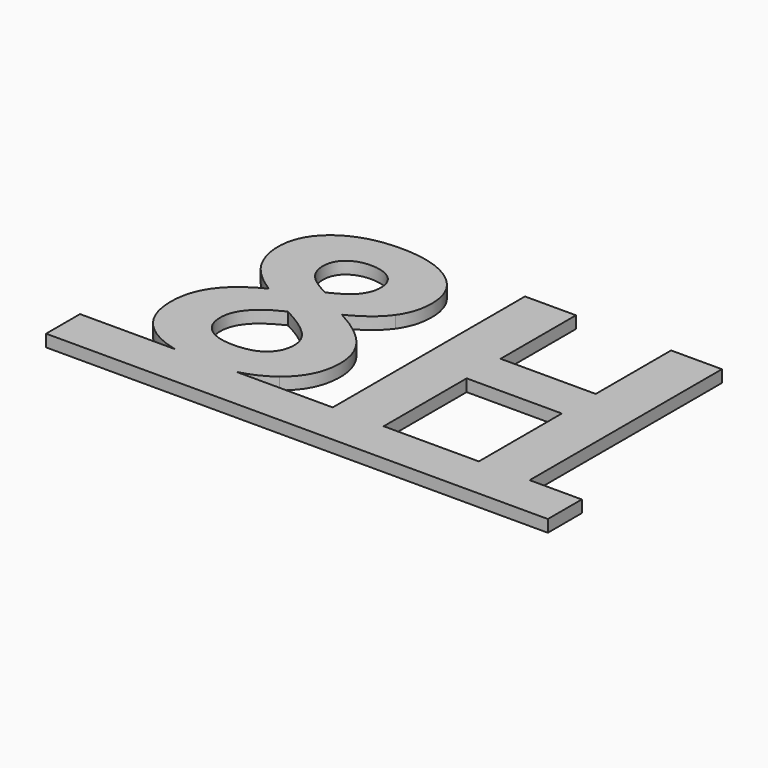
from build123d import *

# Parameters (mm, degrees)
F1_DEPTH = 50.8


with BuildPart() as f1:
    # F0 (on Top) → F1 (new body)
    with BuildSketch(Plane.XY):
        with BuildLine():
            add(Edge.make_bspline(
                [(-256.7479731839, -509.9398493767), (-331.0947230301, -492.5735059696), (-383.5255294376, -453.4954049322)],
                knots=[0.4444009035, 0.4444009035, 0.4444009035, 1, 1, 1], degree=2))
            Line((-256.7479731839, -509.9398493767), (0.8936934563, -509.9398493767))
            add(Edge.make_bspline(
                [(131.8607552846, -448.3139813211), (76.3916231759, -491.4426481707), (0.8936934563, -509.9398493767)],
                knots=[0, 0, 0, 0.5711158597, 0.5711158597, 0.5711158597], degree=2))
            add(Edge.make_bspline(
                [(228.9848872291, -248.8842938211), (228.9848872291, -372.7974882656), (131.8607552846, -448.3139813211)],
                knots=[0, 0, 0, 1, 1, 1], degree=2))
            add(Edge.make_bspline(
                [(179.7062413957, -104.3556479878), (228.9848872291, -170.1707521545), (228.9848872291, -248.8842938211)],
                knots=[0, 0, 0, 1, 1, 1], degree=2))
            add(Edge.make_bspline(
                [(17.5387066735, 22.0931367344), (130.4275955624, -38.5405438211), (179.7062413957, -104.3556479878)],
                knots=[0, 0, 0, 1, 1, 1], degree=2))
            add(Edge.make_bspline(
                [(155.342526118, 129.8006020122), (112.5682205624, 69.4976506233), (17.5387066735, 22.0931367344)],
                knots=[0, 0, 0, 1, 1, 1], degree=2))
            add(Edge.make_bspline(
                [(198.1168316735, 267.27369229), (198.1168316735, 190.1035534011), (155.342526118, 129.8006020122)],
                knots=[0, 0, 0, 1, 1, 1], degree=2))
            add(Edge.make_bspline(
                [(109.5916580624, 444.6547686789), (198.1168316735, 378.8396645122), (198.1168316735, 267.27369229)],
                knots=[0, 0, 0, 1, 1, 1], degree=2))
            add(Edge.make_bspline(
                [(-123.7928905487, 510.4698728455), (21.0664844513, 510.4698728455), (109.5916580624, 444.6547686789)],
                knots=[0, 0, 0, 1, 1, 1], degree=2))
            add(Edge.make_bspline(
                [(-357.2876822154, 443.6625811789), (-267.7703211043, 510.4698728455), (-123.7928905487, 510.4698728455)],
                knots=[0, 0, 0, 1, 1, 1], degree=2))
            add(Edge.make_bspline(
                [(-446.8050433265, 268.5966089567), (-446.8050433265, 376.8552895122), (-357.2876822154, 443.6625811789)],
                knots=[0, 0, 0, 1, 1, 1], degree=2))
            add(Edge.make_bspline(
                [(-408.9916752709, 132.8874075678), (-446.8050433265, 194.9542478455), (-446.8050433265, 268.5966089567)],
                knots=[0, 0, 0, 1, 1, 1], degree=2))
            add(Edge.make_bspline(
                [(-284.9682377709, 16.5809839567), (-371.1783072154, 70.82056729), (-408.9916752709, 132.8874075678)],
                knots=[0, 0, 0, 1, 1, 1], degree=2))
            add(Edge.make_bspline(
                [(-432.032473882, -101.3790854878), (-386.1713627709, -34.5717938211), (-284.9682377709, 16.5809839567)],
                knots=[0, 0, 0, 1, 1, 1], degree=2))
            add(Edge.make_bspline(
                [(-477.8935849932, -254.3964465989), (-477.8935849932, -168.1863771545), (-432.032473882, -101.3790854878)],
                knots=[0, 0, 0, 1, 1, 1], degree=2))
            add(Edge.make_bspline(
                [(-383.5255294376, -453.4954049322), (-477.8935849932, -383.1603354878), (-477.8935849932, -254.3964465989)],
                knots=[0, 0, 0, 1, 1, 1], degree=2))
        make_face()
        with BuildLine():
            add(Edge.make_bspline(
                [(-280.7790016598, -241.8287382656), (-280.7790016598, -301.1395021545), (-239.4378558265, -334.2124188211)],
                knots=[0, 0, 0, 1, 1, 1], degree=2))
            add(Edge.make_bspline(
                [(-134.1557377709, -70.9520021545), (-280.7790016598, -138.6412382656), (-280.7790016598, -241.8287382656)],
                knots=[0, 0, 0, 1, 1, 1], degree=2))
            add(Edge.make_bspline(
                [(-7.7069530487, -156.8313424322), (-46.6227516598, -116.5926271545), (-134.1557377709, -70.9520021545)],
                knots=[0, 0, 0, 1, 1, 1], degree=2))
            add(Edge.make_bspline(
                [(31.2088455624, -243.3721410433), (31.2088455624, -197.07005771), (-7.7069530487, -156.8313424322)],
                knots=[0, 0, 0, 1, 1, 1], degree=2))
            add(Edge.make_bspline(
                [(-8.0376822154, -333.2202313211), (31.2088455624, -299.1551271545), (31.2088455624, -243.3721410433)],
                knots=[0, 0, 0, 1, 1, 1], degree=2))
            add(Edge.make_bspline(
                [(-126.438723882, -367.2853354878), (-47.2842099932, -367.2853354878), (-8.0376822154, -333.2202313211)],
                knots=[0, 0, 0, 1, 1, 1], degree=2))
            add(Edge.make_bspline(
                [(-239.4378558265, -334.2124188211), (-198.0967099932, -367.2853354878), (-126.438723882, -367.2853354878)],
                knots=[0, 0, 0, 1, 1, 1], degree=2))
        make_face(mode=Mode.SUBTRACT)
        with BuildLine():
            add(Edge.make_bspline(
                [(-125.1158072154, 354.8066784011), (-179.5758766598, 354.8066784011), (-212.9795224932, 326.9151853455)],
                knots=[0, 0, 0, 1, 1, 1], degree=2))
            add(Edge.make_bspline(
                [(-36.9213627709, 327.2459145122), (-71.3171961043, 354.8066784011), (-125.1158072154, 354.8066784011)],
                knots=[0, 0, 0, 1, 1, 1], degree=2))
            add(Edge.make_bspline(
                [(-2.5255294376, 252.0601506233), (-2.5255294376, 299.6851506233), (-36.9213627709, 327.2459145122)],
                knots=[0, 0, 0, 1, 1, 1], degree=2))
            add(Edge.make_bspline(
                [(-29.3145919376, 175.5514700678), (-2.5255294376, 208.6243867344), (-2.5255294376, 252.0601506233)],
                knots=[0, 0, 0, 1, 1, 1], degree=2))
            add(Edge.make_bspline(
                [(-123.7928905487, 110.9490395122), (-56.1036544376, 142.4785534011), (-29.3145919376, 175.5514700678)],
                knots=[0, 0, 0, 1, 1, 1], degree=2))
            add(Edge.make_bspline(
                [(-219.8145919376, 178.0870603455), (-193.2460155487, 145.3448728455), (-123.7928905487, 110.9490395122)],
                knots=[0, 0, 0, 1, 1, 1], degree=2))
            add(Edge.make_bspline(
                [(-246.3831683265, 252.0601506233), (-246.3831683265, 210.8292478455), (-219.8145919376, 178.0870603455)],
                knots=[0, 0, 0, 1, 1, 1], degree=2))
            add(Edge.make_bspline(
                [(-212.9795224932, 326.9151853455), (-246.3831683265, 299.02369229), (-246.3831683265, 252.0601506233)],
                knots=[0, 0, 0, 1, 1, 1], degree=2))
        make_face(mode=Mode.SUBTRACT)
        Polygon((1017.2227344513, -509.9398493767), (1230.2123177846, -509.9398493767), (1230.2123177846, 497.46119229), (1017.2227344513, 497.46119229), (1017.2227344513, 102.57056729), (618.3633594513, 102.57056729), (618.3633594513, 497.46119229), (404.7123177846, 497.46119229), (404.7123177846, -509.9398493767), (618.3633594513, -509.9398493767), (618.3633594513, -75.1412382656), (1017.2227344513, -75.1412382656), align=None)
        with BuildLine():
            Line((-654.5029599932, -509.9398493767), (-654.5029599932, -687.7398493767))
            Line((-654.5029599932, -687.7398493767), (1448.7140538957, -687.7398493767))
            Line((1448.7140538957, -687.7398493767), (1448.7140538957, -509.9398493767))
            Line((1448.7140538957, -509.9398493767), (1230.2123177846, -509.9398493767))
            Line((1230.2123177846, -509.9398493767), (1017.2227344513, -509.9398493767))
            Line((1017.2227344513, -509.9398493767), (618.3633594513, -509.9398493767))
            Line((618.3633594513, -509.9398493767), (404.7123177846, -509.9398493767))
            Line((404.7123177846, -509.9398493767), (0.8936934563, -509.9398493767))
            add(Edge.make_bspline(
                [(0.8936934563, -509.9398493767), (-55.8020962652, -523.8304743767), (-123.7928905487, -523.8304743767)],
                knots=[0.5711158597, 0.5711158597, 0.5711158597, 1, 1, 1], degree=2))
            add(Edge.make_bspline(
                [(-123.7928905487, -523.8304743767), (-197.2810607848, -523.8304743767), (-256.7479731839, -509.9398493767)],
                knots=[0, 0, 0, 0.4444009035, 0.4444009035, 0.4444009035], degree=2))
            Line((-256.7479731839, -509.9398493767), (-654.5029599932, -509.9398493767))
        make_face()
        with BuildLine():
            Line((0.8936934563, -509.9398493767), (-256.7479731839, -509.9398493767))
            add(Edge.make_bspline(
                [(-123.7928905487, -523.8304743767), (-197.2810607848, -523.8304743767), (-256.7479731839, -509.9398493767)],
                knots=[0, 0, 0, 0.4444009035, 0.4444009035, 0.4444009035], degree=2))
            add(Edge.make_bspline(
                [(0.8936934563, -509.9398493767), (-55.8020962652, -523.8304743767), (-123.7928905487, -523.8304743767)],
                knots=[0.5711158597, 0.5711158597, 0.5711158597, 1, 1, 1], degree=2))
        make_face()
    extrude(amount=F1_DEPTH)


solid = f1.part
